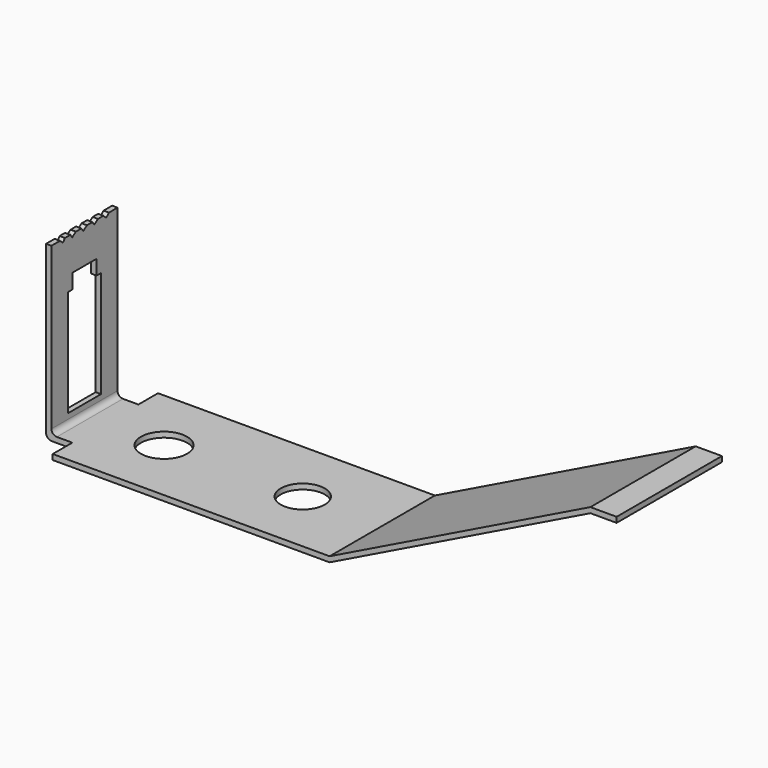
from build123d import *

# Parameters (mm, degrees)
F1_DEPTH = 12.25
F2_W     = 2.44
F2_H     = 7.69
F3_DEPTH = 0.5
F6_DEPTH = 0.5
F7_R     = 0.5
F8_R     = 2.15
F8_R_2   = 2.05
F9_DEPTH = 0.501


with BuildPart() as f1:
    # F0 (on Front) → F1 (new body)
    with BuildSketch(Plane.XZ):
        Polygon((-12.885, 0.5), (-12.885, 0), (12.885, 0), (37.155871, 11.92), (39.595871, 11.92), (39.595871, 12.42), (37.155871, 12.42), (12.885, 0.5), align=None)
    extrude(amount=-F1_DEPTH)

    # F2 (on Top) → F3 (join)
    with BuildSketch(Plane.XY):
        with Locations((-14.105, 6.125)):
            Rectangle(F2_W, F2_H)
    extrude(amount=F3_DEPTH)

    # F5 (on offset) → F6 (join)
    with BuildSketch(Plane.YZ.offset(-15.325)):
        Polygon((2.28, 0.5), (9.97, 0.5), (9.97, 15.7), (8.64, 15.7), (7.258645, 15.7), (5.978645, 15.7), (4.678645, 15.7), (3.61, 15.7), (2.28, 15.7), align=None)
        Polygon((8.05, 11.42), (8.05, 1.5), (4.2, 1.5), (4.2, 11.42), (4.72, 11.42), (4.72, 12.8), (7.53, 12.8), (7.53, 11.42), align=None, mode=Mode.SUBTRACT)
        Polygon((8.64, 15.7), (9.97, 15.7), (9.97, 16), (8.97, 16), align=None)
        Polygon((7.258645, 15.7), (8.64, 15.7), (8.33, 16), (7.69, 16), align=None)
        Polygon((5.978645, 15.7), (7.258645, 15.7), (7.05, 16), (6.41, 16), align=None)
        Polygon((5.13, 16), (4.678645, 15.7), (5.978645, 15.7), (5.77, 16), align=None)
        Polygon((3.85, 16), (3.61, 15.7), (4.678645, 15.7), (4.49, 16), align=None)
        Polygon((2.28, 16), (2.28, 15.7), (3.61, 15.7), (3.28, 16), align=None)
    extrude(amount=F6_DEPTH)

    # F7
    f7_edges = [f1.edges().sort_by_distance(p)[0] for p in [
        (-14.825, 6.125, 0.5),
        (-15.325, 6.125, 0),
    ]]
    fillet(f7_edges, radius=F7_R)

    # F8 (on face) → F9 (cut, through all)
    with BuildSketch(Plane.XY.offset(0.5)):
        with Locations((-7.425, 6.125)):
            Circle(F8_R)
        with Locations((5.485, 6.125)):
            Circle(F8_R_2)
    extrude(amount=-F9_DEPTH, mode=Mode.SUBTRACT)


solid = f1.part
